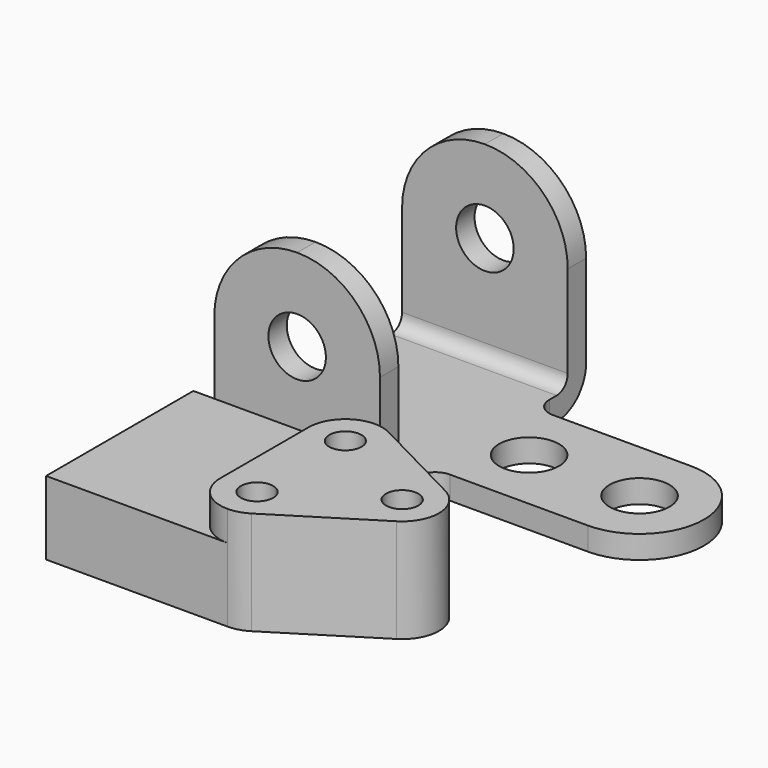
from build123d import *

# Parameters (mm, degrees)
F0_R     = 10.3251
F1_DEPTH = 73.025
F3_DEPTH = 133.351
F4_R     = 9.92251
F5_DEPTH = 88.901
F7_DEPTH = 25.4
F6_R     = 5.5626
F8_DEPTH = 35.75374


with BuildPart() as f1:
    # F0 (on Top) → F1 (new body)
    with BuildSketch(Plane.XY):
        with BuildLine():
            Line((0, 88.9), (0, 0))
            Line((0, 0), (57.15, 0))
            Line((57.15, 0), (57.15, 15.875))
            ThreePointArc((57.15, 15.875), (59.009872, 20.365128), (63.5, 22.225))
            Line((63.5, 22.225), (111.125, 22.225))
            ThreePointArc((111.125, 22.225), (133.35, 44.45), (111.125, 66.675))
            Line((111.125, 66.675), (63.5, 66.675))
            ThreePointArc((63.5, 66.675), (59.009872, 68.534872), (57.15, 73.025))
            Line((57.15, 73.025), (57.15, 88.9))
            Line((57.15, 88.9), (0, 88.9))
        make_face()
        with Locations((73.025, 44.45)):
            Circle(F0_R, mode=Mode.SUBTRACT)
        with Locations((111.125, 44.45)):
            Circle(F0_R, mode=Mode.SUBTRACT)
    extrude(amount=F1_DEPTH)

    # F2 (on face) → F3 (cut, through all)
    with BuildSketch(Plane(origin=(0, 0, 0), x_dir=(0, -1, 0), z_dir=(-1, 0, 0))):
        with BuildLine():
            Line((-7.9375, 73.025), (-80.9625, 73.025))
            Line((-80.9625, 73.025), (-80.9625, 12.7))
            ThreePointArc((-80.9625, 12.7), (-79.567596, 9.332404), (-76.2, 7.9375))
            Line((-76.2, 7.9375), (-12.7, 7.9375))
            ThreePointArc((-12.7, 7.9375), (-9.332404, 9.332404), (-7.9375, 12.7))
            Line((-7.9375, 12.7), (-7.9375, 73.025))
        make_face()
        with BuildLine():
            ThreePointArc((-76.2, 0), (-85.180256, 3.719744), (-88.9, 12.7))
            Line((-88.9, 12.7), (-88.9, 0))
            Line((-88.9, 0), (-76.2, 0))
        make_face()
        with BuildLine():
            ThreePointArc((0, 12.7), (-3.719744, 3.719744), (-12.7, 0))
            Line((-12.7, 0), (0, 0))
            Line((0, 0), (0, 12.7))
        make_face()
    extrude(amount=-F3_DEPTH, mode=Mode.SUBTRACT)

    # F4 (on face) → F5 (cut, through all)
    with BuildSketch(Plane.XZ):
        with Locations((28.575, 44.45)):
            Circle(F4_R)
        with BuildLine():
            Line((57.15, 73.025), (28.575, 73.025))
            ThreePointArc((28.575, 73.025), (48.780576, 64.655576), (57.15, 44.45))
            Line((57.15, 44.45), (57.15, 73.025))
        make_face()
        with BuildLine():
            Line((0, 73.025), (0, 44.45))
            ThreePointArc((0, 44.45), (8.369424, 64.655576), (28.575, 73.025))
            Line((28.575, 73.025), (0, 73.025))
        make_face()
    extrude(amount=-F5_DEPTH, mode=Mode.SUBTRACT)


with BuildPart() as f7:
    # F6 (on Top) → F7 (new body)
    with BuildSketch(Plane.XY):
        with BuildLine():
            Line((62.617697, -9.045224), (0, -9.045224))
            Line((0, -9.045224), (0, -72.545224))
            Line((0, -72.545224), (62.617697, -72.545224))
            ThreePointArc((62.617697, -72.545224), (53.637441, -68.82548), (49.917697, -59.845224))
            Line((49.917697, -59.845224), (49.917697, -21.745224))
            ThreePointArc((49.917697, -21.745224), (53.637441, -12.764968), (62.617697, -9.045224))
        make_face()
    extrude(amount=F7_DEPTH)

    # F6 (on Top) → F8 (join)
    with BuildSketch(Plane.XY):
        with BuildLine():
            ThreePointArc((68.443323, -10.460186), (65.615198, -9.404033), (62.617697, -9.045224))
            ThreePointArc((62.617697, -9.045224), (53.637441, -12.764968), (49.917697, -21.745224))
            Line((49.917697, -21.745224), (49.917697, -59.845224))
            ThreePointArc((49.917697, -59.845224), (53.637441, -68.82548), (62.617697, -72.545224))
            ThreePointArc((62.617697, -72.545224), (66.124113, -72.051577), (69.357941, -70.609011))
            Line((69.357941, -70.609011), (102.708141, -49.72524))
            ThreePointArc((102.708141, -49.72524), (108.656985, -38.435091), (101.793523, -27.676415))
            Line((101.793523, -27.676415), (68.443323, -10.460186))
        make_face()
        with Locations((62.617697, -59.845224)):
            Circle(F6_R, mode=Mode.SUBTRACT)
        with Locations((95.967897, -38.961453)):
            Circle(F6_R, mode=Mode.SUBTRACT)
        with Locations((62.617697, -21.745224)):
            Circle(F6_R, mode=Mode.SUBTRACT)
    extrude(amount=F8_DEPTH)


solid = Compound([f1.part, f7.part])
